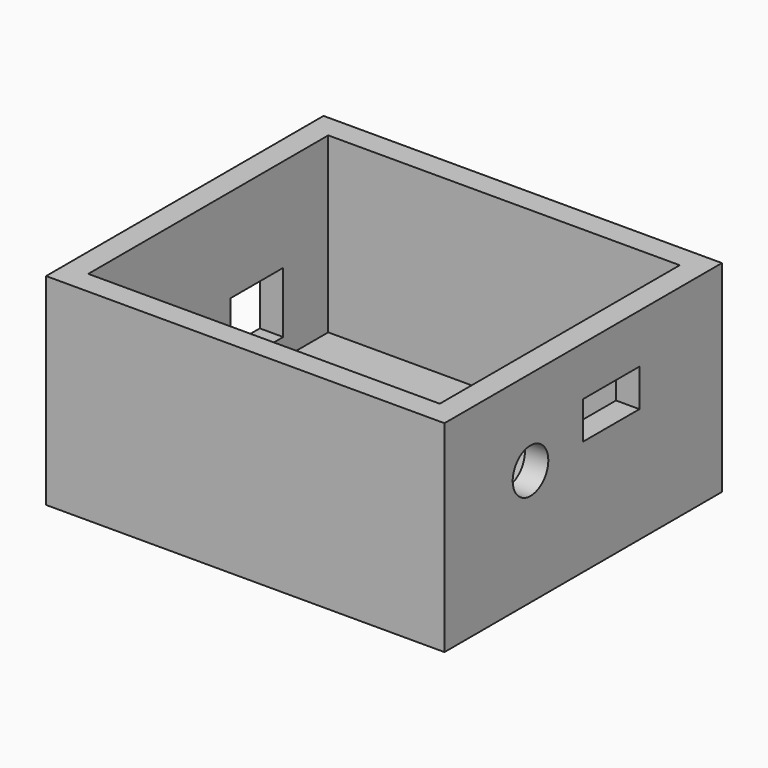
from build123d import *

# Parameters (mm, degrees)
F0_W      = 85
F0_H      = 74
F1_DEPTH  = 43
F2_W      = 75
F2_H      = 64
F3_DEPTH  = 37
F4_W      = 15
F4_H      = 8
F5_DEPTH  = 6
F6_R      = 4.75
F7_DEPTH  = 6
F8_W      = 14
F8_H      = 13
F9_DEPTH  = 6
F10_W     = 13
F10_H     = 12
F11_DEPTH = 6


with BuildPart() as f1:
    # F0 (on Top) → F1 (new body)
    with BuildSketch(Plane.XY):
        Rectangle(F0_W, F0_H)
    extrude(amount=F1_DEPTH)

    # F2 (on face) → F3 (cut)
    with BuildSketch(Plane.XY.offset(43)):
        Rectangle(F2_W, F2_H)
    extrude(amount=-F3_DEPTH, mode=Mode.SUBTRACT)

    # F4 (on face) → F5 (cut)
    with BuildSketch(Plane.YZ.offset(42.5)):
        with Locations((7.5, 28.5)):
            Rectangle(F4_W, F4_H)
    extrude(amount=-F5_DEPTH, mode=Mode.SUBTRACT)

    # F6 (on face) → F7 (cut)
    with BuildSketch(Plane.YZ.offset(42.5)):
        with Locations((-14.05, 24.75)):
            Circle(F6_R)
    extrude(amount=-F7_DEPTH, mode=Mode.SUBTRACT)

    # F8 (on face) → F9 (cut)
    with BuildSketch(Plane(origin=(-42.5, 0, 0), x_dir=(0, -1, 0), z_dir=(-1, 0, 0))):
        with Locations((-13, 16.5)):
            Rectangle(F8_W, F8_H)
    extrude(amount=-F9_DEPTH, mode=Mode.SUBTRACT)

    # F10 (on face) → F11 (cut)
    with BuildSketch(Plane(origin=(-42.5, 0, 0), x_dir=(0, -1, 0), z_dir=(-1, 0, 0))):
        with Locations((16.5, 16)):
            Rectangle(F10_W, F10_H)
    extrude(amount=-F11_DEPTH, mode=Mode.SUBTRACT)


solid = f1.part
